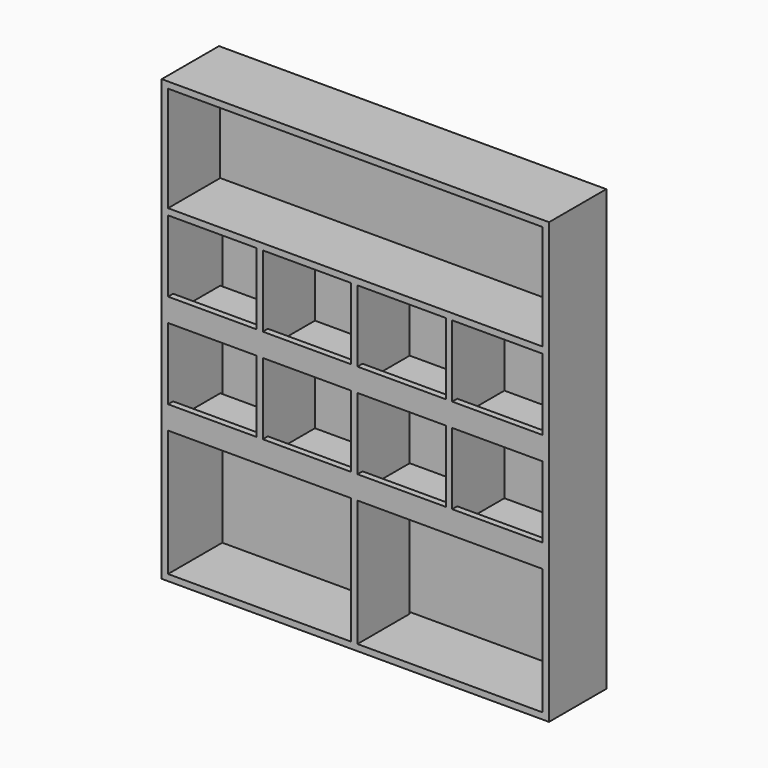
from build123d import *

# Parameters (mm, degrees)
F0_W      = 920
F0_H      = 1045
F1_DEPTH  = 170
F2_T      = -15
F3_W      = 920
F3_H      = 280
F4_DEPTH  = 15
F5_W      = 890
F5_H      = 750
F6_DEPTH  = 4
F7_W      = 890
F7_H      = 15
F8_DEPTH  = 155
F9_W      = 890
F9_H      = 15
F10_DEPTH = 155
F11_W     = 15
F11_H     = 435
F12_DEPTH = 155
F13_W     = 890
F13_H     = 40
F14_DEPTH = 15
F15_W     = 15
F15_H     = 370
F16_DEPTH = 155


with BuildPart() as f1:
    # F0 (on Front) → F1 (new body)
    with BuildSketch(Plane.XZ):
        with Locations((0, 522.5)):
            Rectangle(F0_W, F0_H)
    extrude(amount=F1_DEPTH)

    # F2
    f2_openings = [f1.faces().sort_by_distance(p)[0] for p in [
        (0, -170, 522.5),
        (0, 0, 522.5),
    ]]
    offset(amount=F2_T, openings=f2_openings)

    # F3 (on face) → F4 (join)
    with BuildSketch(Plane(origin=(0, 0, 0), x_dir=(-1, 0, 0), z_dir=(0, 1, 0))):
        with Locations((0, 905)):
            Rectangle(F3_W, F3_H)
    extrude(amount=-F4_DEPTH)

    # F7 (on face) → F8 (join, through all)
    with BuildSketch(Plane.XZ.offset(15)):
        with Locations((0, 772.5)):
            Rectangle(F7_W, F7_H)
        with Locations((0, 322.5)):
            Rectangle(F7_W, F7_H)
    extrude(amount=F8_DEPTH)

    # F9 (on face) → F10 (join, through all)
    with BuildSketch(Plane.XZ.offset(170)):
        with Locations((0, 547.5)):
            Rectangle(F9_W, F9_H)
    extrude(amount=-F10_DEPTH)

    # F11 (on face) → F12 (join, through all)
    with BuildSketch(Plane.XZ.offset(170)):
        with Locations((-227.5, 547.5)):
            Rectangle(F11_W, F11_H)
        with Locations((-2.5, 547.5)):
            Rectangle(F11_W, F11_H)
        with Locations((222.5, 547.5)):
            Rectangle(F11_W, F11_H)
    extrude(amount=-F12_DEPTH)

    # F13 (on face) → F14 (join)
    with BuildSketch(Plane.XZ.offset(170)):
        with Locations((0, 350)):
            Rectangle(F13_W, F13_H)
        with Locations((0, 575)):
            Rectangle(F13_W, F13_H)
    extrude(amount=-F14_DEPTH)

    # F15 (on face) → F16 (join, through all)
    with BuildSketch(Plane.XZ.offset(170)):
        with Locations((-2.5, 185)):
            Rectangle(F15_W, F15_H)
    extrude(amount=-F16_DEPTH)


with BuildPart() as f6:
    # F5 (on face) → F6 (new body)
    with BuildSketch(Plane(origin=(0, 0, 0), x_dir=(-1, 0, 0), z_dir=(0, 1, 0))):
        with Locations((0, 390)):
            Rectangle(F5_W, F5_H)
    extrude(amount=-F6_DEPTH)


with BuildPart() as f6_1:
    # F17: moved
    add(f6.part.moved(Location((0, -5, 0))))


solid = Compound([f1.part, f6_1.part])
